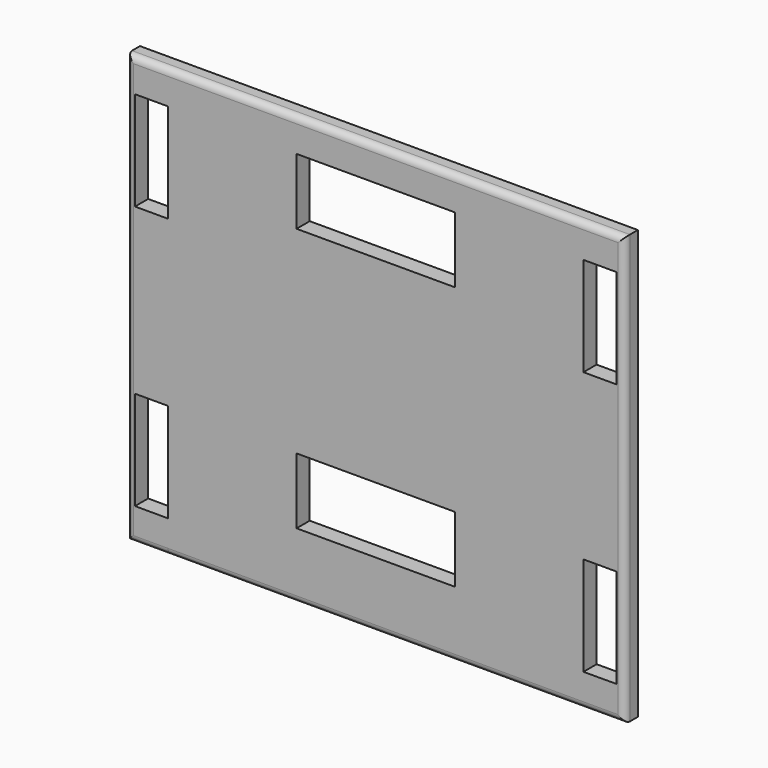
from build123d import *

# Parameters (mm, degrees)
F1_DEPTH = 3.175
F2_R     = 1.27


with BuildPart() as f1:
    # F0 (on Front) → F1 (new body)
    with BuildSketch(Plane.XZ):
        Polygon((77.259964, 68.658026), (-18.625036, 68.658026), (-18.625036, -13.891974), (-10.687536, -13.891959), (77.259964, -13.891784), align=None)
        Polygon((-10.687536, 11.529953), (-10.687536, -7.541974), (-17.037499, -7.520047), (-17.037536, 11.529953), align=None, mode=Mode.SUBTRACT)
        Polygon((14.077464, 11.529953), (29.317464, 11.529953), (44.557464, 11.529953), (44.557464, -1.170047), (14.077464, -1.170047), align=None, mode=Mode.SUBTRACT)
        Polygon((69.322464, 11.529953), (75.672464, 11.529953), (75.672426, -7.520047), (69.322464, -7.541974), align=None, mode=Mode.SUBTRACT)
        Polygon((-17.037536, 62.308026), (-13.862536, 62.308026), (-10.687536, 62.308026), (-10.687536, 43.258026), (-17.037536, 43.258026), align=None, mode=Mode.SUBTRACT)
        Polygon((14.077464, 62.308026), (29.317464, 62.308026), (44.557464, 62.308026), (44.557464, 49.608026), (14.077464, 49.608026), align=None, mode=Mode.SUBTRACT)
        Polygon((69.322464, 43.258026), (69.322464, 62.308026), (72.497464, 62.308026), (75.672464, 62.308026), (75.672464, 43.258026), align=None, mode=Mode.SUBTRACT)
    extrude(amount=F1_DEPTH)

    # F2
    f2_edges = [f1.edges().sort_by_distance(p)[0] for p in [
        (77.259964, -3.175, 27.383121),
        (29.317464, -3.175, 68.658026),
        (-18.625036, -3.175, 27.383026),
        (29.317464, -3.175, -13.891879),
    ]]
    fillet(f2_edges, radius=F2_R)


solid = f1.part
